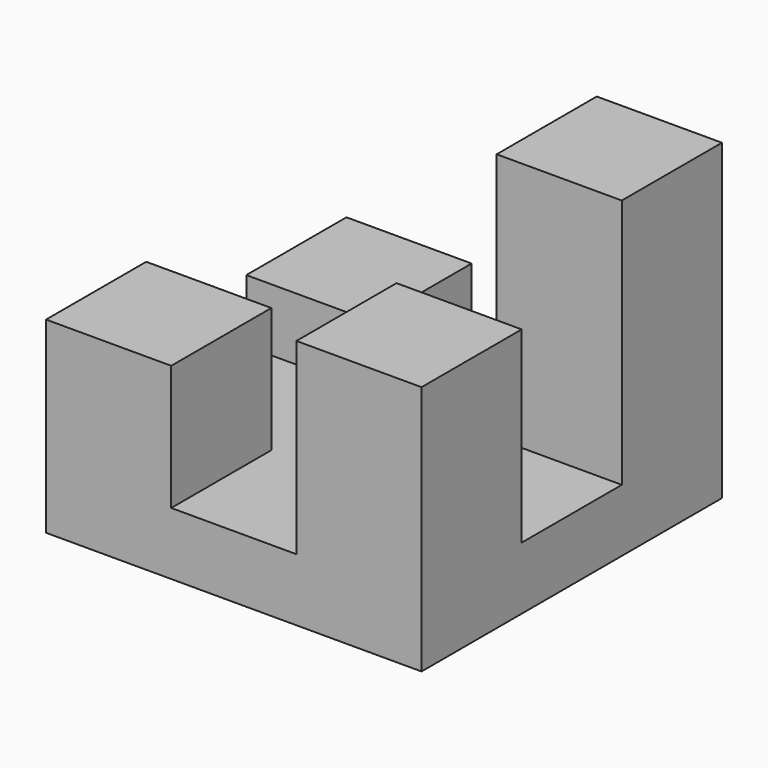
from build123d import *

# Parameters (mm, degrees)
F0_W     = 76.2
F0_H     = 76.2
F1_DEPTH = 12.7
F2_W     = 25.4
F2_H     = 25.4
F3_DEPTH = 25.4
F4_DEPTH = 12.7
F5_DEPTH = 50.8
F6_DEPTH = 38.1


with BuildPart() as f1:
    # F0 (on Top) → F1 (new body)
    with BuildSketch(Plane.XY):
        with Locations((4.450217, 10.362076)):
            Rectangle(F0_W, F0_H)
    extrude(amount=F1_DEPTH)

    # F2 (on face) → F3 (join)
    with BuildSketch(Plane.XY.offset(12.7)):
        with Locations((-20.949783, -15.037924)):
            Rectangle(F2_W, F2_H)
    extrude(amount=F3_DEPTH)

    # F2 (on face) → F4 (join)
    with BuildSketch(Plane.XY.offset(12.7)):
        with Locations((-20.949783, 35.762076)):
            Rectangle(F2_W, F2_H)
    extrude(amount=F4_DEPTH)

    # F2 (on face) → F5 (join)
    with BuildSketch(Plane.XY.offset(12.7)):
        with Locations((29.850217, 35.762076)):
            Rectangle(F2_W, F2_H)
    extrude(amount=F5_DEPTH)

    # F2 (on face) → F6 (join)
    with BuildSketch(Plane.XY.offset(12.7)):
        with Locations((29.850217, -15.037924)):
            Rectangle(F2_W, F2_H)
    extrude(amount=F6_DEPTH)


solid = f1.part
